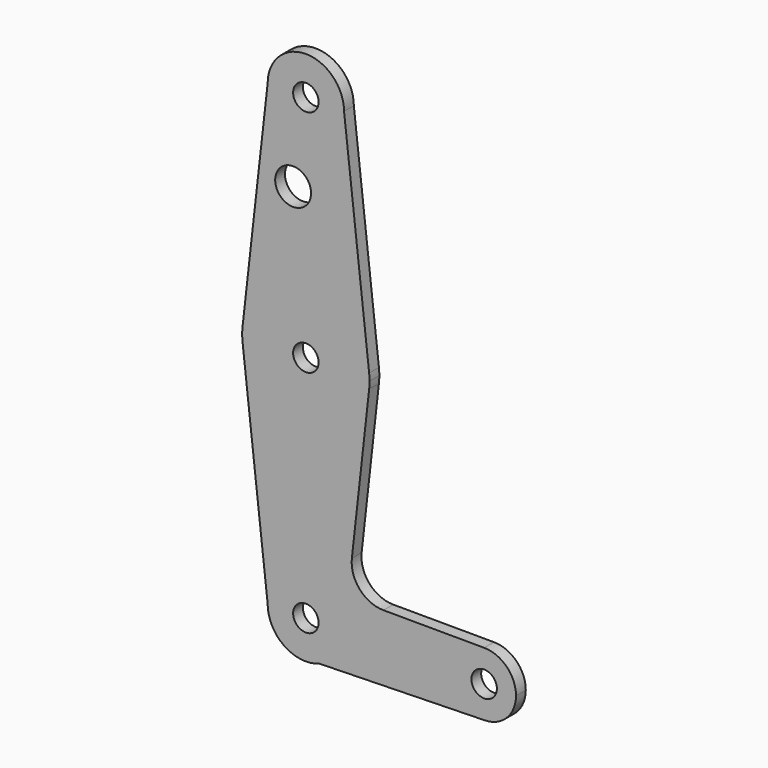
from build123d import *

# Parameters (mm, degrees)
F0_R     = 3.175
F0_R_2   = 4.469767
F1_DEPTH = 3.048


with BuildPart() as f1:
    # F0 (on Front) → F1 (new body)
    with BuildSketch(Plane.XZ):
        with BuildLine():
            ThreePointArc((-9.525, 114.3), (0, 104.775), (9.525, 114.3))
            ThreePointArc((9.525, 114.3), (0, 123.825), (-9.525, 114.3))
        make_face()
        with Locations((0, 114.3)):
            Circle(F0_R, mode=Mode.SUBTRACT)
        with BuildLine():
            Line((15.774826, 58.930585), (9.525, 114.3))
            ThreePointArc((9.525, 114.3), (0, 104.775), (-9.525, 114.3))
            Line((-9.525, 114.3), (-15.774826, 58.930585))
            ThreePointArc((-15.774826, 58.930585), (0, 73.025), (15.774826, 58.930585))
        make_face()
        with Locations((-3.175, 93.6752)):
            Circle(F0_R_2, mode=Mode.SUBTRACT)
        with BuildLine():
            ThreePointArc((15.875, 57.15), (15.849937, 58.0417), (15.774826, 58.930585))
            ThreePointArc((15.774826, 58.930585), (0, 73.025), (-15.774826, 58.930585))
            ThreePointArc((-15.774826, 58.930585), (-15.875, 57.15), (-15.774826, 55.369415))
            ThreePointArc((-15.774826, 55.369415), (0, 41.275), (15.774826, 55.369415))
            ThreePointArc((15.774826, 55.369415), (15.849937, 56.2583), (15.875, 57.15))
        make_face()
        with Locations((0, 57.15)):
            Circle(F0_R, mode=Mode.SUBTRACT)
        with BuildLine():
            ThreePointArc((15.774826, 55.369415), (0, 41.275), (-15.774826, 55.369415))
            Line((-15.774826, 55.369415), (-9.525, 0))
            ThreePointArc((-9.525, 0), (0, 9.525), (9.525, 0))
            ThreePointArc((9.525, 0), (7.83864, -5.411225), (3.376685, -8.906381))
            Line((3.376685, -8.906381), (44.636762, -7.935303))
            ThreePointArc((44.636762, -7.935303), (36.512909, -0.080557), (44.475662, 7.937459))
            Line((44.475662, 7.937459), (19.343749, 8.018711))
            ThreePointArc((19.343749, 8.018711), (13.435163, 10.678322), (11.468479, 16.852224))
            Line((11.468479, 16.852224), (15.774826, 55.369415))
        make_face()
        with BuildLine():
            ThreePointArc((9.525, 0), (0, 9.525), (-9.525, 0))
            ThreePointArc((-9.525, 0), (-5.411225, -7.83864), (3.376685, -8.906381))
            ThreePointArc((3.376685, -8.906381), (7.83864, -5.411225), (9.525, 0))
        make_face()
        Circle(F0_R, mode=Mode.SUBTRACT)
        with BuildLine():
            ThreePointArc((44.475662, 7.937459), (36.512909, -0.080557), (44.636762, -7.935303))
            ThreePointArc((44.636762, -7.935303), (50.128306, -5.546237), (52.3875, 0))
            ThreePointArc((52.3875, 0), (50.071726, 5.60358), (44.475662, 7.937459))
        make_face()
        with Locations((44.45, 0)):
            Circle(F0_R, mode=Mode.SUBTRACT)
    extrude(amount=F1_DEPTH)


solid = f1.part
